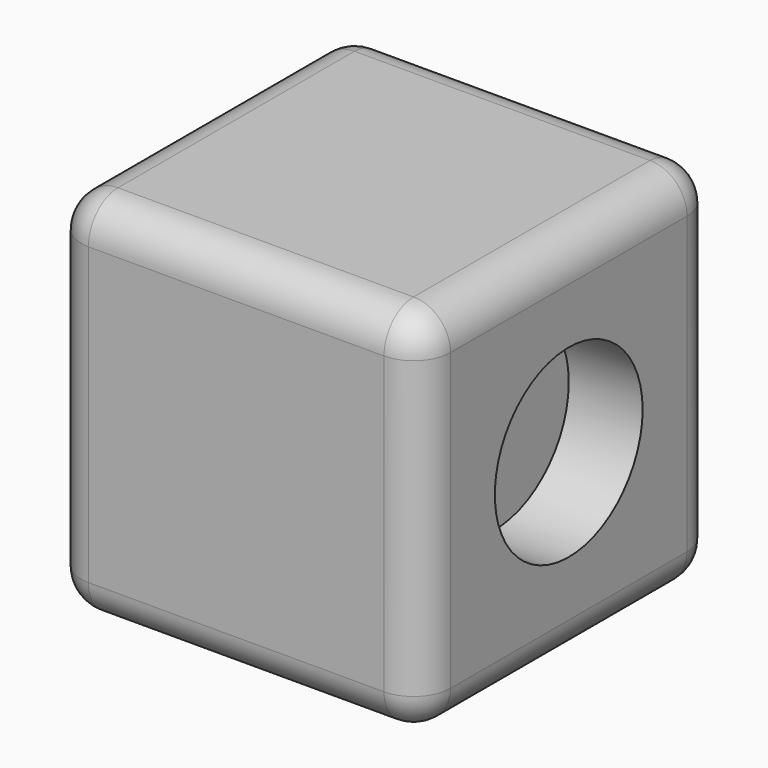
from build123d import *

# Parameters (mm, degrees)
F0_W     = 50
F0_H     = 50
F1_DEPTH = 50
F2_R     = 12.5
F3_DEPTH = 10
F4_R     = 5


with BuildPart() as f1:
    # F0 (on Top) → F1 (new body)
    with BuildSketch(Plane.XY):
        Rectangle(F0_W, F0_H)
    extrude(amount=F1_DEPTH)

    # F2 (on face) → F3 (cut)
    with BuildSketch(Plane.YZ.offset(25)):
        with Locations((0, 25)):
            Circle(F2_R)
    extrude(amount=-F3_DEPTH, mode=Mode.SUBTRACT)

    # F4
    f4_edges = [f1.edges().sort_by_distance(p)[0] for p in [
        (25, 0, 0),
        (25, 25, 25),
        (25, 0, 50),
        (25, -25, 25),
        (0, 25, 0),
        (0, -25, 0),
        (0, -25, 50),
        (0, 25, 50),
        (-25, 25, 25),
        (-25, 0, 0),
        (-25, 0, 50),
        (-25, -25, 25),
    ]]
    fillet(f4_edges, radius=F4_R)


solid = f1.part
